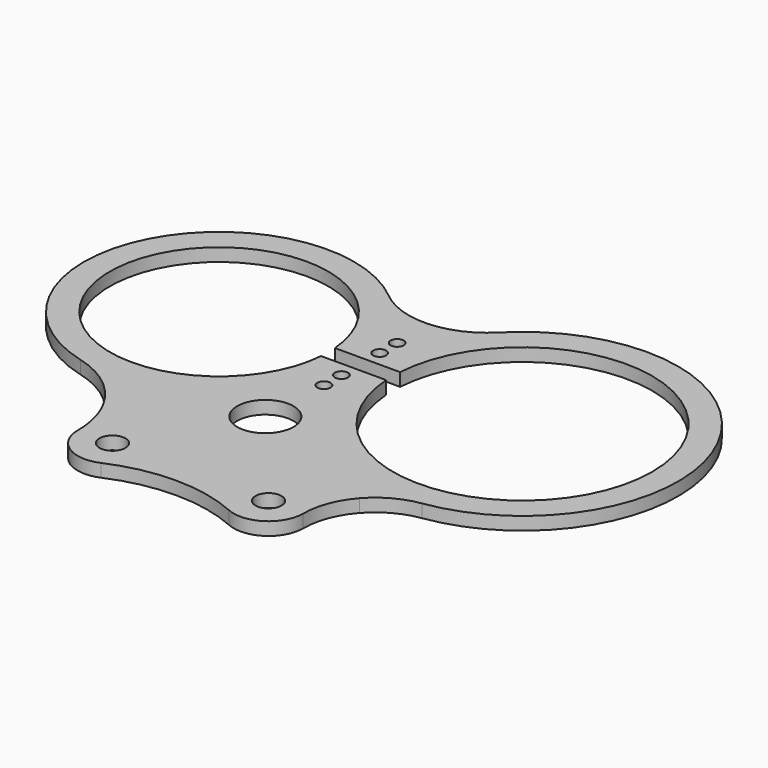
from build123d import *

# Parameters (mm, degrees)
F0_R     = 4.7625
F0_R_2   = 10.31875
F0_R_3   = 2.413
F1_DEPTH = 4.7625


with BuildPart() as f1:
    # F0 (on Top) → F1 (new body)
    with BuildSketch(Plane.XY):
        with BuildLine():
            ThreePointArc((41.275, -44.45), (42.979239, -35.116466), (47.87201, -26.9875))
            Line((47.87201, -26.9875), (-45.826281, -26.9875))
            ThreePointArc((-45.826281, -26.9875), (-42.431513, -35.42707), (-41.275, -44.45))
            ThreePointArc((-41.275, -44.45), (-35.519907, -55.082886), (-23.470548, -56.07904))
            ThreePointArc((-23.470548, -56.07904), (0, -51.154707), (23.470548, -56.07904))
            ThreePointArc((23.470548, -56.07904), (35.519907, -55.082886), (41.275, -44.45))
        make_face()
        with Locations((-28.575, -44.45)):
            Circle(F0_R, mode=Mode.SUBTRACT)
        with Locations((28.575, -44.45)):
            Circle(F0_R, mode=Mode.SUBTRACT)
        with BuildLine():
            ThreePointArc((63.848057, -18.319856), (106.425851, 63.883136), (14.954093, 78.135084))
            ThreePointArc((14.954093, 78.135084), (-4.10718, 69.597202), (-23.922089, 76.2))
            ThreePointArc((-23.922089, 76.2), (-99.630791, 60.698924), (-68.038523, -9.827805))
            ThreePointArc((-68.038523, -9.827805), (-55.179287, -16.138345), (-45.826281, -26.9875))
            Line((-45.826281, -26.9875), (47.87201, -26.9875))
            ThreePointArc((47.87201, -26.9875), (55.090906, -21.236035), (63.848057, -18.319856))
        make_face()
        with Locations((-4.720613, -4.287676)):
            Circle(F0_R_2, mode=Mode.SUBTRACT)
        with Locations((-3.759988, 21.336)):
            Circle(F0_R_3, mode=Mode.SUBTRACT)
        with Locations((-3.759988, 29.337)):
            Circle(F0_R_3, mode=Mode.SUBTRACT)
        with Locations((-3.759988, 46.863)):
            Circle(F0_R_3, mode=Mode.SUBTRACT)
        with Locations((-3.759988, 54.864)):
            Circle(F0_R_3, mode=Mode.SUBTRACT)
        with BuildLine():
            ThreePointArc((-15.688707, 34.925), (-95.5625, 38.1), (-15.688707, 41.275))
            Line((-15.688707, 41.275), (8.168731, 41.275))
            ThreePointArc((8.168731, 41.275), (57.150888, 85.573435), (103.0625, 38.1))
            ThreePointArc((103.0625, 38.1), (57.150888, -9.373435), (8.168731, 34.925))
            Line((8.168731, 34.925), (-15.688707, 34.925))
        make_face(mode=Mode.SUBTRACT)
    extrude(amount=-F1_DEPTH)


solid = f1.part
